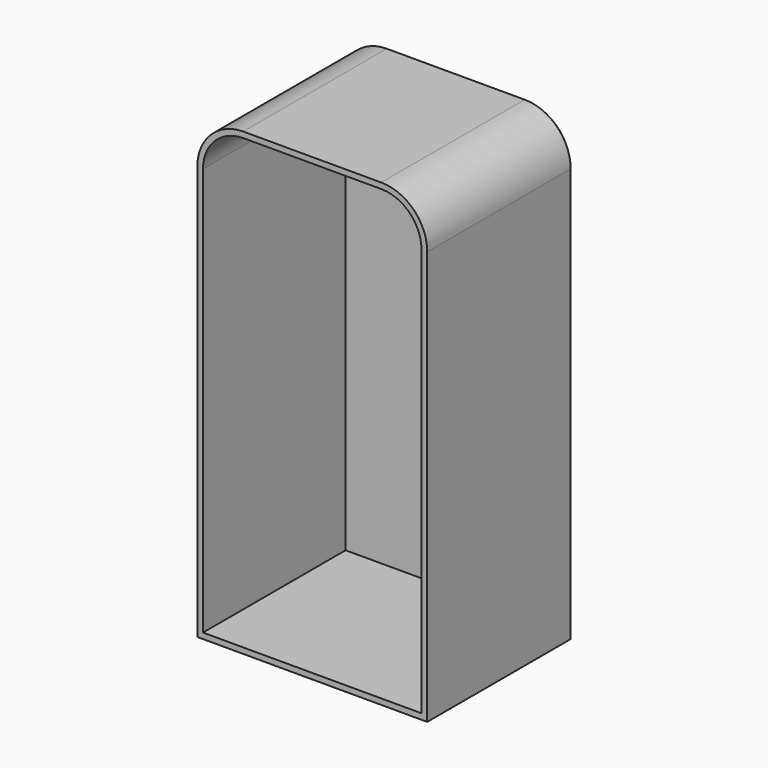
from build123d import *

# Parameters (mm, degrees)
F1_DEPTH = 80
F2_T     = -2.5
F3_SIZE  = 2


with BuildPart() as f1:
    # F0 (on Front) → F1 (new body)
    with BuildSketch(Plane.XZ):
        with BuildLine():
            Line((30, 100), (-30, 100))
            ThreePointArc((-30, 100), (-44.142136, 94.142136), (-50, 80))
            Line((-50, 80), (-50, -100))
            Line((-50, -100), (50, -100))
            Line((50, -100), (50, 80))
            ThreePointArc((50, 80), (44.142136, 94.142136), (30, 100))
        make_face()
    extrude(amount=F1_DEPTH)

    # F2
    f2_openings = [f1.faces().sort_by_distance(p)[0] for p in [
        (0, -80, -0.82716),
    ]]
    offset(amount=F2_T, openings=f2_openings)

    # F3
    f3_edges = [f1.edges().sort_by_distance(p)[0] for p in [
        (50, 0, -10),
        (0, 0, 100),
        (-44.142136, 0, 94.142136),
        (-50, 0, -10),
        (0, 0, -100),
        (44.142136, 0, 94.142136),
    ]]
    chamfer(f3_edges, length=F3_SIZE)


solid = f1.part
